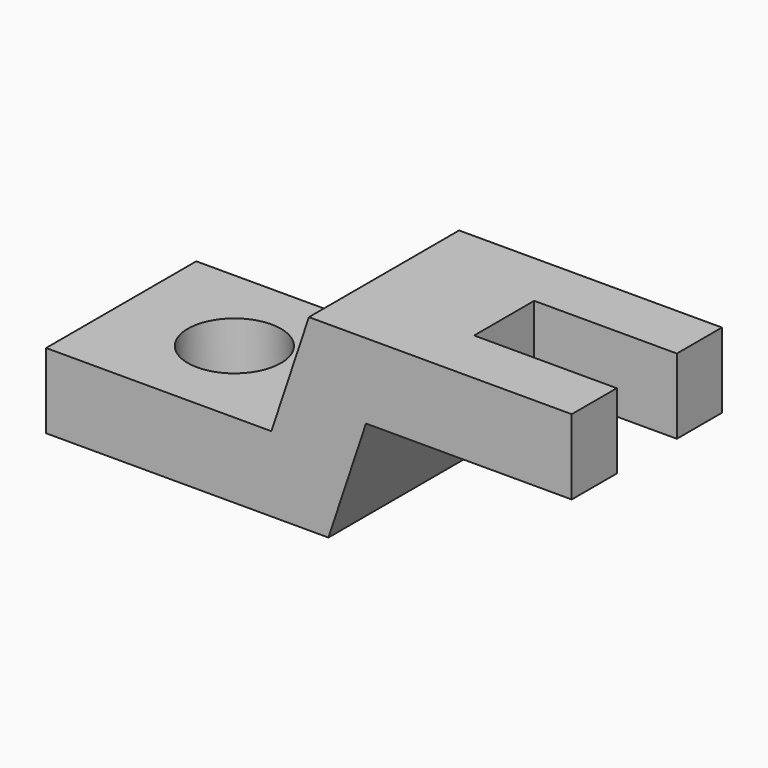
from build123d import *

# Parameters (mm, degrees)
F1_DEPTH = 31.75
F2_W     = 24.130002
F2_H     = 12.7
F3_DEPTH = 12.7
F4_R     = 7.874
F5_DEPTH = 12.7


with BuildPart() as f1:
    # F0 (on Front) → F1 (new body)
    with BuildSketch(Plane.XZ):
        Polygon((0, 12.7), (0, 0), (47.752, 0), (54.102, 19.05), (88.9, 19.05), (88.9, 31.75), (44.45, 31.75), (38.1, 12.7), align=None)
    extrude(amount=F1_DEPTH)

    # F2 (on face) → F3 (cut)
    with BuildSketch(Plane.XY.offset(31.75)):
        with Locations((76.834999, -15.875)):
            Rectangle(F2_W, F2_H)
    extrude(amount=-F3_DEPTH, mode=Mode.SUBTRACT)

    # F4 (on face) → F5 (cut)
    with BuildSketch(Plane.XY.offset(12.7)):
        with Locations((19.05, -15.748)):
            Circle(F4_R)
    extrude(amount=-F5_DEPTH, mode=Mode.SUBTRACT)


solid = f1.part
